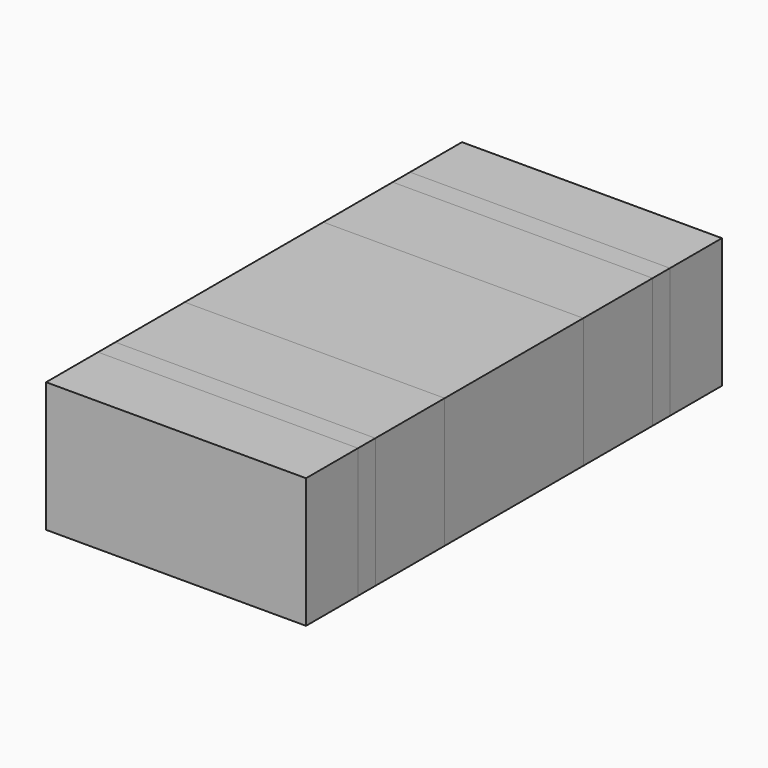
from build123d import *

# Parameters (mm, degrees)
F0_W     = 125
F0_H     = 62.5
F1_DEPTH = 125
F2_DEPTH = 62.5
F3_DEPTH = 93.75
F4_DEPTH = 31.25
F5_DEPTH = 83.333333
F6_DEPTH = 41.666667


with BuildPart() as f1:
    # F0 (on Front) → F1 (new body, symmetric)
    with BuildSketch(Plane.XZ):
        Rectangle(F0_W, F0_H)
    extrude(amount=F1_DEPTH, both=True)


with BuildPart() as f2:
    # F0 (on Front) → F2 (new body, symmetric)
    with BuildSketch(Plane.XZ):
        Rectangle(F0_W, F0_H)
    extrude(amount=F2_DEPTH, both=True)


with BuildPart() as f3:
    # F0 (on Front) → F3 (new body, symmetric)
    with BuildSketch(Plane.XZ):
        Rectangle(F0_W, F0_H)
    extrude(amount=F3_DEPTH, both=True)


with BuildPart() as f4:
    # F0 (on Front) → F4 (new body, symmetric)
    with BuildSketch(Plane.XZ):
        Rectangle(F0_W, F0_H)
    extrude(amount=F4_DEPTH, both=True)


with BuildPart() as f5:
    # F0 (on Front) → F5 (new body, symmetric)
    with BuildSketch(Plane.XZ):
        Rectangle(F0_W, F0_H)
    extrude(amount=F5_DEPTH, both=True)


with BuildPart() as f6:
    # F0 (on Front) → F6 (new body, symmetric)
    with BuildSketch(Plane.XZ):
        Rectangle(F0_W, F0_H)
    extrude(amount=F6_DEPTH, both=True)


solid = Compound([f1.part, f2.part, f3.part, f4.part, f5.part, f6.part])
